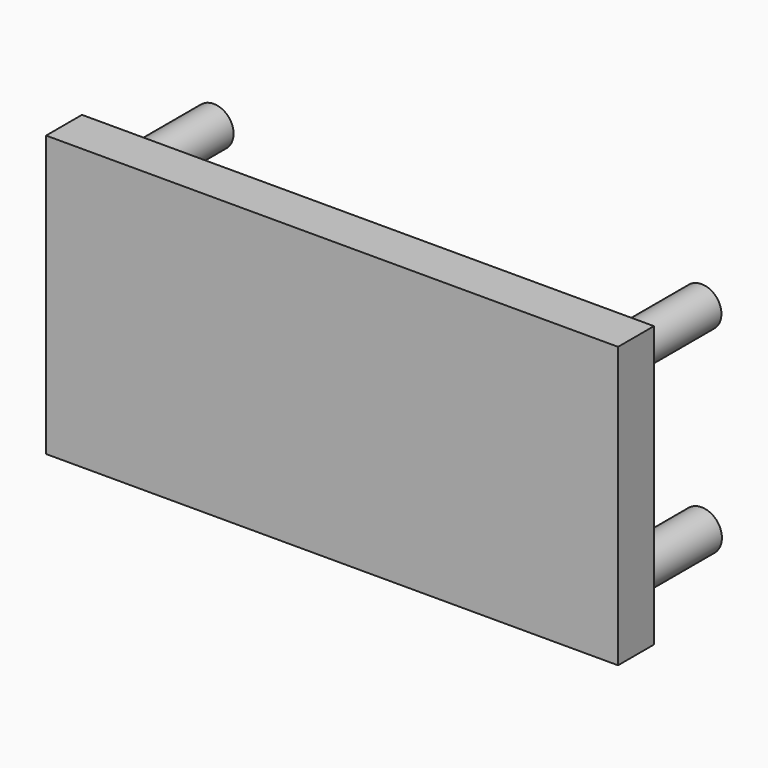
from build123d import *

# Parameters (mm, degrees)
F0_W     = 102
F0_H     = 50
F1_DEPTH = 4
F2_R     = 3.535534
F3_DEPTH = 20


with BuildPart() as f1:
    # F0 (on Front) → F1 (new body, symmetric)
    with BuildSketch(Plane.XZ):
        Rectangle(F0_W, F0_H)
    extrude(amount=F1_DEPTH, both=True)

    # F2 (on face) → F3 (join)
    with BuildSketch(Plane(origin=(0, 4, 0), x_dir=(-1, 0, 0), z_dir=(0, 1, 0))):
        with BuildLine():
            ThreePointArc((-41, -20.251553), (-40.167688, -19.054202), (-39.874438, -17.625776))
            ThreePointArc((-39.874438, -17.625776), (-46.832312, -16.197351), (-41, -20.251553))
        make_face()
        with Locations((-43.5, 17.5)):
            Circle(F2_R)
        with Locations((43.5, -17.5)):
            Circle(F2_R)
        with Locations((43.5, 17.5)):
            Circle(F2_R)
    extrude(amount=F3_DEPTH)


solid = f1.part
